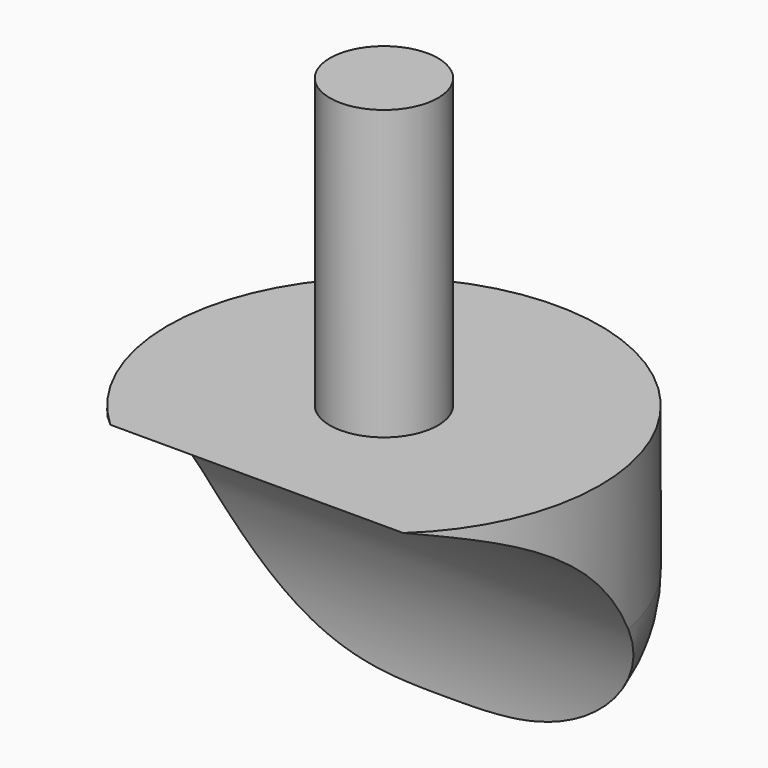
from build123d import *

# Parameters (mm, degrees)
F0_R     = 19.05
F0_R_2   = 4.7625
F1_DEPTH = 25.4
F2_DEPTH = 50.8
F4_R     = 12.7
F3_R     = 25.8953
F5_DEPTH = 19.051
F6_DEPTH = 25.4
F7_ANGLE = 90


with BuildPart() as f1:
    # F0 (on Top) → F1 (new body)
    with BuildSketch(Plane.XY):
        Circle(F0_R)
        Circle(F0_R_2, mode=Mode.SUBTRACT)
    extrude(amount=F1_DEPTH)

    # F0 (on Top) → F2 (join)
    with BuildSketch(Plane.XY):
        Circle(F0_R_2)
    extrude(amount=F2_DEPTH)

    # F4
    f4_edges = [f1.edges().sort_by_distance(p)[0] for p in [
        (-19.05, 0, 0),
    ]]
    fillet(f4_edges, radius=F4_R)

    # F3 (on Front) → F5 (cut, through all)
    with BuildSketch(Plane.XZ):
        with Locations((19.05, 0)):
            Circle(F3_R)
    extrude(amount=-F5_DEPTH, mode=Mode.SUBTRACT)

    # F3 (on Front) → F6 (cut)
    with BuildSketch(Plane.XZ):
        with Locations((19.05, 0)):
            Circle(F3_R)
    extrude(amount=F6_DEPTH, mode=Mode.SUBTRACT)


with BuildPart() as f1_1:
    # F7: moved
    add(f1.part.rotate(Axis((0, 0, 0), (0, 0, -1)), F7_ANGLE))


solid = f1_1.part
